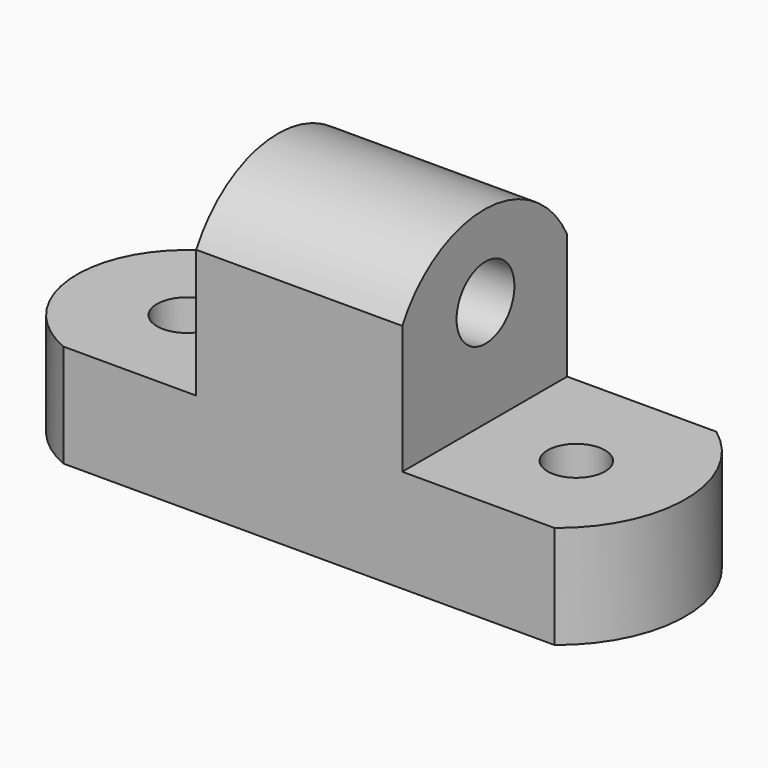
from build123d import *

# Parameters (mm, degrees)
F1_DEPTH  = 25.4
F3_DEPTH  = 25.4
F5_DEPTH  = 25.4
F7_DEPTH  = 25.4
F8_R      = 3.725598
F8_R_2    = 3.542164
F9_DEPTH  = 25.4
F10_R     = 4.455747
F11_DEPTH = 25.4


with BuildPart() as f1:
    # F0 (on Front) → F1 (new body)
    with BuildSketch(Plane.XZ):
        Polygon((-32.395763, 12.7), (-32.395763, 0), (43.804237, 0), (43.804237, 12.7), (18.404237, 12.7), (18.404237, 36.485594), (-6.995763, 36.485594), (-6.995763, 12.7), align=None)
    extrude(amount=F1_DEPTH)

    # F2 (on face) → F3 (cut)
    with BuildSketch(Plane(origin=(-6.995763, 0, 0), x_dir=(0, -1, 0), z_dir=(-1, 0, 0))):
        with BuildLine():
            ThreePointArc((0, 28.142773), (12.583745, 36.02061), (25.4, 28.526975))
            Line((25.4, 28.526975), (25.4, 36.485594))
            Line((25.4, 36.485594), (0, 36.485594))
            Line((0, 36.485594), (0, 28.142773))
        make_face()
    extrude(amount=-F3_DEPTH, mode=Mode.SUBTRACT)

    # F4 (on face) → F5 (cut)
    with BuildSketch(Plane.XY.offset(12.7)):
        with BuildLine():
            ThreePointArc((-23.340253, -25.4), (-31.730093, -12.434566), (-22.571849, 0))
            Line((-22.571849, 0), (-32.395763, 0))
            Line((-32.395763, 0), (-32.395763, -25.4))
            Line((-32.395763, -25.4), (-23.340253, -25.4))
        make_face()
    extrude(amount=-F5_DEPTH, mode=Mode.SUBTRACT)

    # F6 (on face) → F7 (cut)
    with BuildSketch(Plane.XY.offset(12.7)):
        with BuildLine():
            ThreePointArc((36.787312, 0), (43.280053, -12.604697), (37.171513, -25.4))
            Line((37.171513, -25.4), (43.804237, -25.4))
            Line((43.804237, -25.4), (43.804237, 0))
            Line((43.804237, 0), (36.787312, 0))
        make_face()
    extrude(amount=-F7_DEPTH, mode=Mode.SUBTRACT)

    # F8 (on face) → F9 (cut)
    with BuildSketch(Plane.XY.offset(12.7)):
        with Locations((-18.151755, -12.84534)):
            Circle(F8_R)
        with Locations((30.063784, -13.158907)):
            Circle(F8_R_2)
    extrude(amount=-F9_DEPTH, mode=Mode.SUBTRACT)

    # F10 (on face) → F11 (cut)
    with BuildSketch(Plane(origin=(-6.995763, 0, 0), x_dir=(0, -1, 0), z_dir=(-1, 0, 0))):
        with Locations((12.582604, 25.837563)):
            Circle(F10_R)
    extrude(amount=-F11_DEPTH, mode=Mode.SUBTRACT)


solid = f1.part
